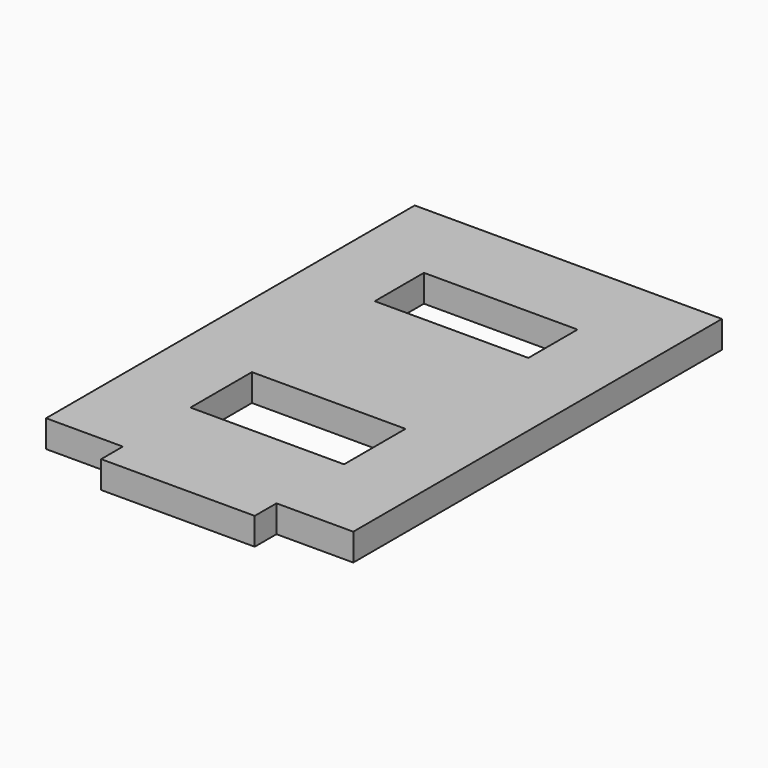
from build123d import *

# Parameters (mm, degrees)
F1_DEPTH = 4.4958
F2_W     = 25.4
F2_H     = 10.16
F2_H_2   = 12.7
F3_DEPTH = 4.4968


with BuildPart() as f1:
    # F0 (on Top) → F1 (new body)
    with BuildSketch(Plane.XY):
        Polygon((25.4, 38.1), (-25.4, 38.1), (-25.4, -38.1), (-12.7, -38.1), (-12.7, -42.5958), (12.7, -42.5958), (12.7, -38.1), (25.4, -38.1), align=None)
    extrude(amount=F1_DEPTH)

    # F2 (on face) → F3 (cut, through all)
    with BuildSketch(Plane.XY.offset(4.4958)):
        with Locations((0, 19.05)):
            Rectangle(F2_W, F2_H)
        with Locations((0, -17.78)):
            Rectangle(F2_W, F2_H_2)
    extrude(amount=-F3_DEPTH, mode=Mode.SUBTRACT)


solid = f1.part
